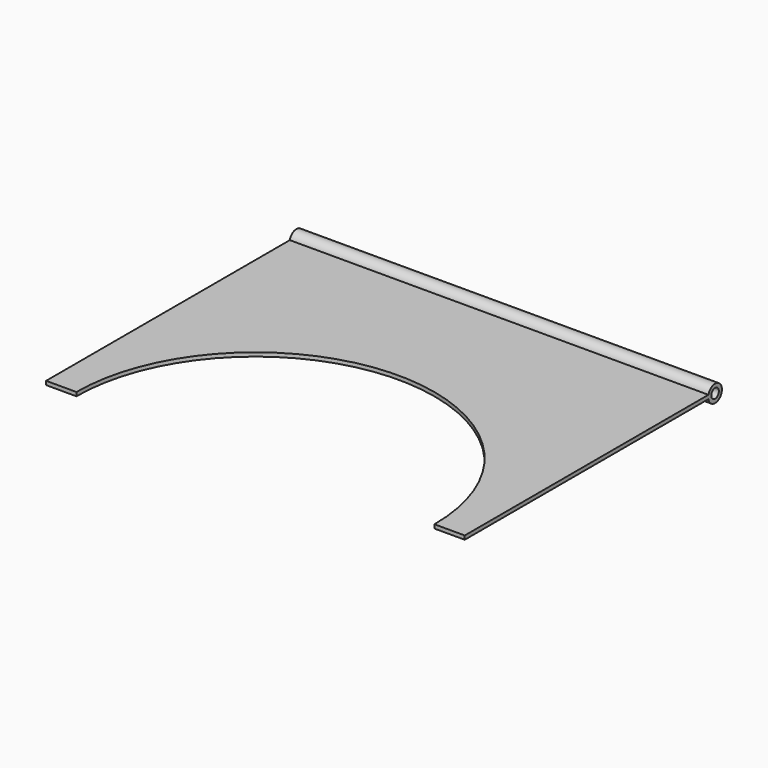
from build123d import *

# Parameters (mm, degrees)
F0_R     = 3.175
F1_DEPTH = 279.4
F3_DEPTH = 25.4


with BuildPart() as f1:
    # F0 (on Right) → F1 (new body)
    with BuildSketch(Plane.YZ):
        with BuildLine():
            ThreePointArc((-5.602967, -1.12605), (5.713093, -0.147644), (-5.537325, 1.41395))
            Line((-5.537325, 1.41395), (-208.8253, 1.41395))
            Line((-208.8253, 1.41395), (-208.8253, -1.12605))
            Line((-208.8253, -1.12605), (-5.602967, -1.12605))
        make_face()
        Circle(F0_R, mode=Mode.SUBTRACT)
    extrude(amount=F1_DEPTH)

    # F2 (on face) → F3 (cut)
    with BuildSketch(Plane.XY.offset(1.41395)):
        with BuildLine():
            Line((20.240789, -208.8253), (259.159211, -208.8253))
            ThreePointArc((259.159211, -208.8253), (139.7, -89.366089), (20.240789, -208.8253))
        make_face()
    extrude(amount=-F3_DEPTH, mode=Mode.SUBTRACT)


solid = f1.part
